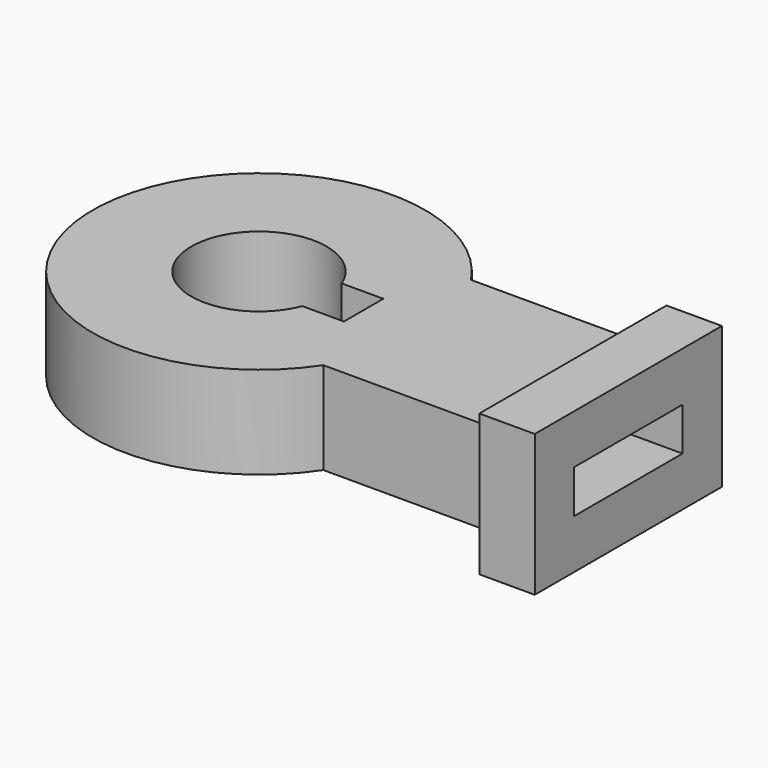
from build123d import *

# Parameters (mm, degrees)
F1_DEPTH = 15
F2_W     = 30
F2_H     = 15
F3_DEPTH = 9


with BuildPart() as f1:
    # F0 (on Top) → F1 (new body)
    with BuildSketch(Plane.XY):
        with BuildLine():
            Line((-1.7300834656, 11.5820603818), (-1.7300834656, 26.5820603818))
            Line((-1.7300834656, 26.5820603818), (-1.7300834656, 41.5820603818))
            Line((-1.7300834656, 41.5820603818), (-30.2801391449, 41.5820603818))
            ThreePointArc((-30.2801391449, 41.5820603818), (-79.7300834656, 26.5820603818), (-30.2801391449, 11.5820603818))
            Line((-30.2801391449, 11.5820603818), (-1.7300834656, 11.5820603818))
        make_face()
        with BuildLine():
            ThreePointArc((-42.4831326996, 22.5820603818), (-63.7300834656, 26.5820603818), (-42.4831326996, 30.5820603818))
            Line((-42.4831326996, 30.5820603818), (-35.7300834656, 30.5820603818))
            Line((-35.7300834656, 30.5820603818), (-35.7300834656, 26.5820603818))
            Line((-35.7300834656, 26.5820603818), (-35.7300834656, 22.5820603818))
            Line((-35.7300834656, 22.5820603818), (-42.4831326996, 22.5820603818))
        make_face(mode=Mode.SUBTRACT)
    extrude(amount=F1_DEPTH)

    # F2 (on face) → F3 (join)
    with BuildSketch(Plane.YZ.offset(-1.7300834656)):
        Polygon((45.5820603818, 19), (26.5820603818, 19), (7.5820603818, 19), (7.5820603818, -4), (45.5820603818, -4), align=None)
        with Locations((26.5820603818, 7.5)):
            Rectangle(F2_W, F2_H, mode=Mode.SUBTRACT)
        with Locations((26.5820603818, 7.5)):
            Rectangle(F2_W, F2_H)
        Polygon((15.5820603818, 11), (26.5820603818, 11), (37.5820603818, 11), (37.5820603818, 4), (15.5820603818, 4), align=None, mode=Mode.SUBTRACT)
    extrude(amount=F3_DEPTH)


solid = f1.part
